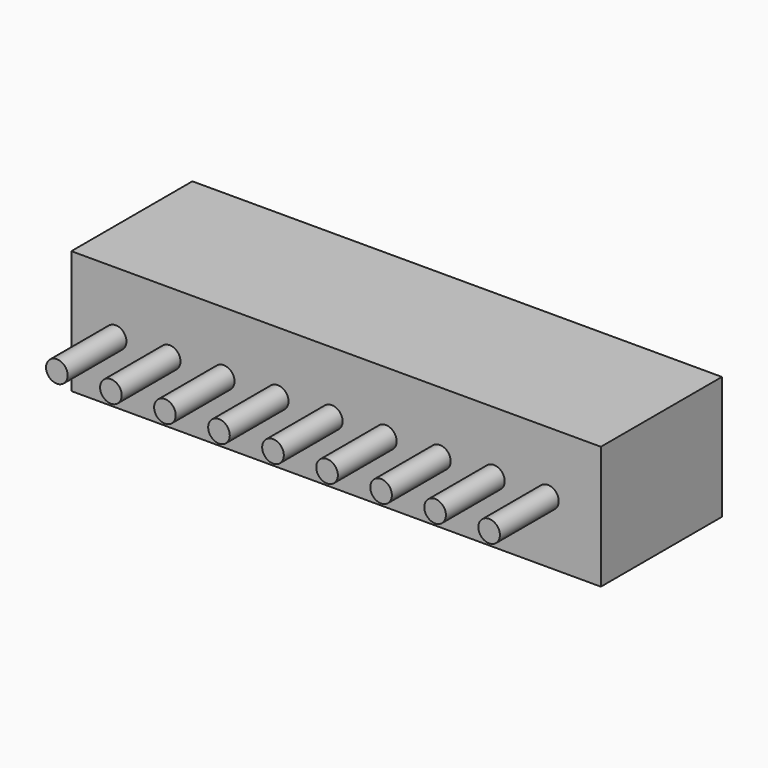
from build123d import *

# Parameters (mm, degrees)
F0_W     = 24.5
F0_H     = 5.7
F1_DEPTH = 7
F2_R     = 0.5
F3_DEPTH = 3.4
F4_W     = 22.82576
F4_H     = 4.464458
F5_DEPTH = 6.35


with BuildPart() as f1:
    # F0 (on Front) → F1 (new body)
    with BuildSketch(Plane.XZ):
        Rectangle(F0_W, F0_H)
    extrude(amount=F1_DEPTH)

    # F2 (on face) → F3 (join)
    with BuildSketch(Plane.XZ.offset(7)):
        with Locations((9.8, 0)):
            Circle(F2_R)
        with Locations((7.3, 0)):
            Circle(F2_R)
        with Locations((4.8, 0)):
            Circle(F2_R)
        with Locations((2.3, 0)):
            Circle(F2_R)
        with Locations((-0.2, 0)):
            Circle(F2_R)
        with Locations((-2.7, 0)):
            Circle(F2_R)
        with Locations((-5.2, 0)):
            Circle(F2_R)
        with Locations((-7.7, 0)):
            Circle(F2_R)
        with Locations((-10.2, 0)):
            Circle(F2_R)
    extrude(amount=F3_DEPTH)

    # F4 (on face) → F5 (cut)
    with BuildSketch(Plane(origin=(0, 0, 0), x_dir=(-1, 0, 0), z_dir=(0, 1, 0))):
        with Locations((0.214789, 0)):
            Rectangle(F4_W, F4_H)
    extrude(amount=-F5_DEPTH, mode=Mode.SUBTRACT)


solid = f1.part
